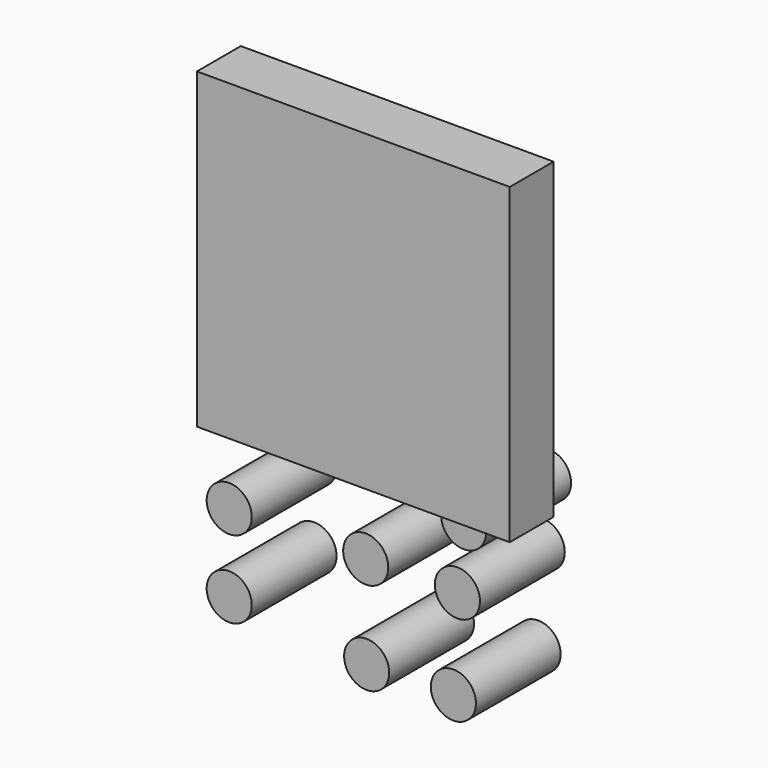
from build123d import *

# Parameters (mm, degrees)
F0_W     = 77
F0_H     = 76.999996
F1_DEPTH = 13.5
F2_R     = 5.625
F3_DEPTH = 10.4
F4_R     = 5.55
F5_DEPTH = 26.95
F7_R     = 5.55
F8_DEPTH = 26.1


with BuildPart() as f1:
    # F0 (on Front) → F1 (new body)
    with BuildSketch(Plane.XZ):
        with Locations((-21.289619, 16.697738)):
            Rectangle(F0_W, F0_H)
    extrude(amount=F1_DEPTH)

    # F2 (on Front) → F3 (cut)
    with BuildSketch(Plane.XZ):
        with Locations((-47.934785, 43.415219)):
            Circle(F2_R)
        with Locations((-47.872989, 16.896392)):
            Circle(F2_R)
        with Locations((-48.208699, -9.997827)):
            Circle(F2_R)
        with Locations((-21.365218, 43.415219)):
            Circle(F2_R)
        with Locations((-21.365218, 16.982611)):
            Circle(F2_R)
        with Locations((-21.365218, -9.997827)):
            Circle(F2_R)
        with Locations((5.204351, 43.415219)):
            Circle(F2_R)
        with Locations((5.478264, 16.982611)):
            Circle(F2_R)
        with Locations((5.204351, -9.723914)):
            Circle(F2_R)
    extrude(amount=F3_DEPTH, mode=Mode.SUBTRACT)


with BuildPart() as f5:
    # F4 (on Front) → F5 (new body)
    with BuildSketch(Plane.XZ):
        with Locations((5.227459, 43.492564)):
            Circle(F4_R)
    extrude(amount=F5_DEPTH)


with BuildPart() as f8:
    # F7 (on Front) → F8 (new body)
    with BuildSketch(Plane.XZ):
        with Locations((-62.646843, -45.962341)):
            Circle(F7_R)
    extrude(amount=-F8_DEPTH)


with BuildPart() as f9_1:
    # F9: copy of F8
    add(f8.part.moved(Location((33.67321, 0, 21.13052))))


with BuildPart() as f10_1:
    # F10: copy of F8
    add(f8.part.moved(Location((33.60381, 0, 0))))


with BuildPart() as f11_1:
    # F11: copy of F8
    add(f8.part.moved(Location((0, 0, 26.48071))))


with BuildPart() as f12_1:
    # F12: copy of F8
    add(f8.part.moved(Location((56.17833, 0, 0))))


with BuildPart() as f13_1:
    # F13: copy of F8
    add(f8.part.moved(Location((57.72158, 0, 15.50535))))


with BuildPart() as f14_1:
    # F14: copy of F8
    add(f8.part.moved(Location((0, 0, -19.11017))))


with BuildPart() as f15_1:
    # F15: copy of F8
    add(f8.part.moved(Location((55.17584, 0, -22.46081))))


with BuildPart() as f16_1:
    # F16: copy of F8
    add(f8.part.moved(Location((33.83369, 0, -22.77746))))


solid = Compound([f1.part, f8.part, f9_1.part, f10_1.part, f11_1.part, f12_1.part, f13_1.part, f14_1.part, f15_1.part, f16_1.part])
